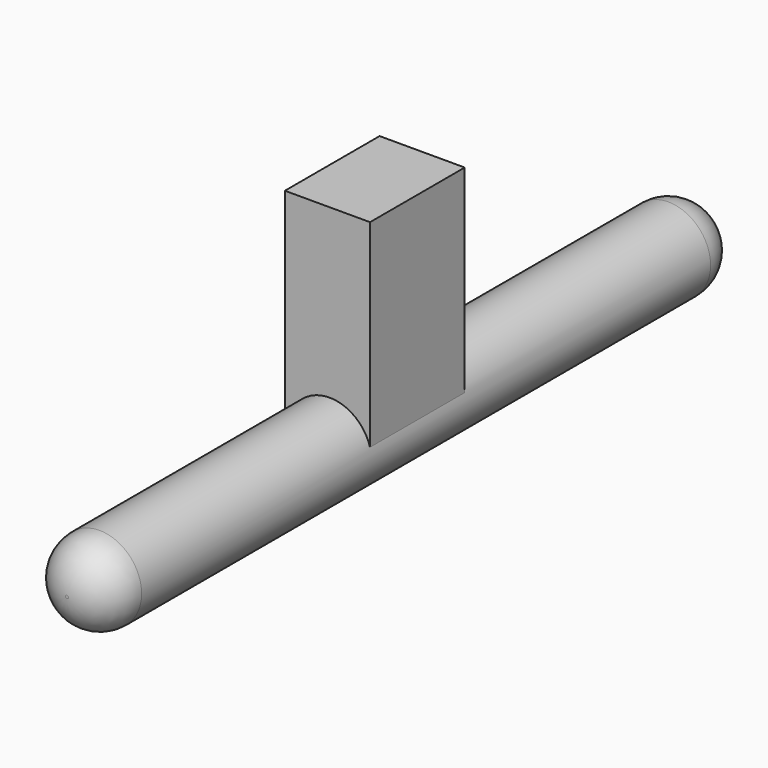
from build123d import *

# Parameters (mm, degrees)
F0_R     = 13.156852
F1_DEPTH = 247.65
F2_W     = 26.60638
F2_H     = 36.989354
F3_DEPTH = 65.532
F4_R     = 12.7
F5_R     = 12.7
F6_W     = 214.072559
F6_H     = 7.634542
F7_DEPTH = 11.43
F8_W     = 215.813644
F8_H     = 7.254239
F9_DEPTH = 8.89


with BuildPart() as f1:
    # F0 (on Front) → F1 (new body)
    with BuildSketch(Plane.XZ):
        Circle(F0_R)
    extrude(amount=F1_DEPTH)

    # F2 (on Top) → F3 (join)
    with BuildSketch(Plane.XY):
        with Locations((-0.648935, -126.607973)):
            Rectangle(F2_W, F2_H)
    extrude(amount=F3_DEPTH)

    # F4
    f4_edges = [f1.edges().sort_by_distance(p)[0] for p in [
        (-13.156852, -247.65, 0),
    ]]
    fillet(f4_edges, radius=F4_R)

    # F5
    f5_edges = [f1.edges().sort_by_distance(p)[0] for p in [
        (-13.156852, 0, 0),
    ]]
    fillet(f5_edges, radius=F5_R)

    # F6 (on Right) → F7 (join)
    with BuildSketch(Plane.YZ):
        with Locations((-123.286945, 0)):
            Rectangle(F6_W, F6_H)
    extrude(amount=-F7_DEPTH)

    # F8 (on Right) → F9 (join)
    with BuildSketch(Plane.YZ):
        with Locations((-124.603193, -0.566737)):
            Rectangle(F8_W, F8_H)
    extrude(amount=F9_DEPTH)


solid = f1.part
